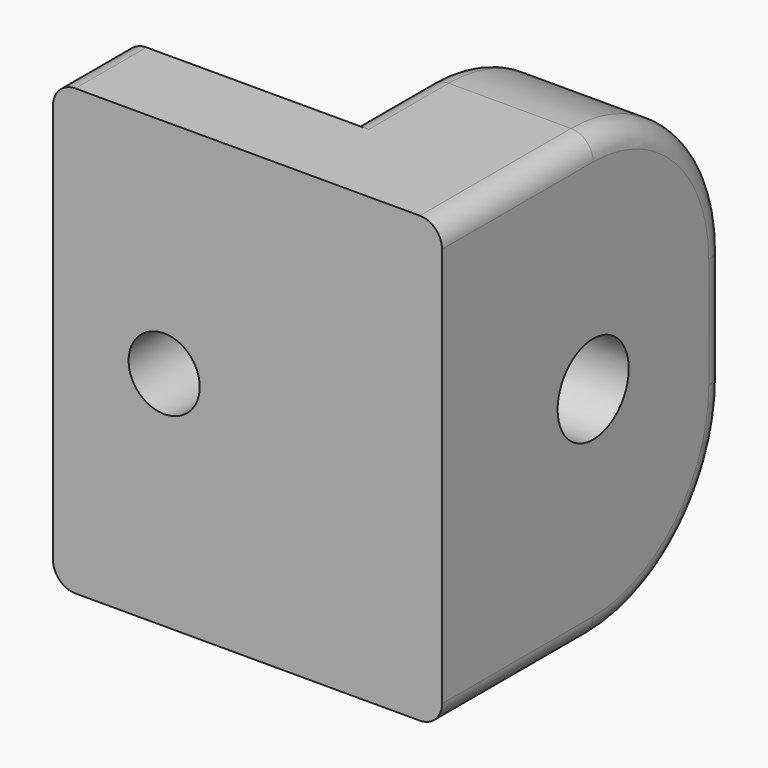
from build123d import *

# Parameters (mm, degrees)
CYLINDER010_R     = 3.2
CYLINDER010_DEPTH = 10
CYLINDER011_R     = 7
CYLINDER011_DEPTH = 1.5
CYLINDER006_R     = 4
CYLINDER006_DEPTH = 81
BOX011_W          = 15
BOX011_H          = 32
BOX011_DEPTH      = 40
FILLET005_R       = 15
FILLET012005_R    = 2
BOX013_W          = 35
BOX013_H          = 8
BOX013_DEPTH      = 40
FILLET012007_R    = 2


with BuildPart() as cylinder010:
    # Cylinder010 → Cylinder010 (new body)
    with BuildSketch(Plane(origin=(-40, -64, 20), x_dir=(1, 0, 0), z_dir=(0, -1, 0))):
        Circle(CYLINDER010_R)
    extrude(amount=CYLINDER010_DEPTH)


with BuildPart() as fusion006:
    # Cylinder011 → Cylinder011 (new body)
    with BuildSketch(Plane(origin=(-40, -66, 20), x_dir=(1, 0, 0), z_dir=(0, -1, 0))):
        Circle(CYLINDER011_R)
    extrude(amount=CYLINDER011_DEPTH)

    # Fusion006: union Cylinder010
    add(cylinder010.part)


with BuildPart() as cylinder006:
    # Cylinder006 → Cylinder006 (new body)
    with BuildSketch(Plane(origin=(43, -57, 20), x_dir=(0, 0, 1), z_dir=(-1, 0, 0))):
        Circle(CYLINDER006_R)
    extrude(amount=CYLINDER006_DEPTH)


with BuildPart() as fillet012005:
    # Box011 → Box011 (new body)
    with BuildSketch(Plane(origin=(-30, -74, 0), x_dir=(1, 0, 0), z_dir=(0, 0, 1))):
        with Locations((7.5, 16)):
            Rectangle(BOX011_W, BOX011_H)
    extrude(amount=BOX011_DEPTH)

    # Fillet005
    fillet005_edges = [fillet012005.edges().sort_by_distance(p)[0] for p in [
        (-22.5, -42, 0),
        (-22.5, -42, 40),
    ]]
    fillet(fillet005_edges, radius=FILLET005_R)

    # Cut014: cut Cylinder006
    add(cylinder006.part, mode=Mode.SUBTRACT)

    # Fillet012005
    fillet012005_edges = [fillet012005.edges().sort_by_distance(p)[0] for p in [
        (-30, -65.5, 40),
        (-30, -46.393398, 35.606602),
        (-30, -42, 20),
        (-30, -65.5, 0),
        (-30, -46.393398, 4.393398),
        (-15, -65.5, 40),
        (-15, -46.393398, 35.606602),
        (-15, -42, 20),
        (-15, -65.5, 0),
        (-15, -46.393398, 4.393398),
    ]]
    fillet(fillet012005_edges, radius=FILLET012005_R)


with BuildPart() as cut019:
    # Box013 → Box013 (new body)
    with BuildSketch(Plane(origin=(-50, -74, 0), x_dir=(1, 0, 0), z_dir=(0, 0, 1))):
        with Locations((17.5, 4)):
            Rectangle(BOX013_W, BOX013_H)
    extrude(amount=BOX013_DEPTH)

    # Fillet012007
    fillet012007_edges = [cut019.edges().sort_by_distance(p)[0] for p in [
        (-50, -70, 40),
        (-50, -70, 0),
        (-15, -70, 40),
        (-15, -70, 0),
    ]]
    fillet(fillet012007_edges, radius=FILLET012007_R)

    # Fusion004: union Fillet012005
    add(fillet012005.part)

    # Cut019: cut Fusion006
    add(fusion006.part, mode=Mode.SUBTRACT)


solid = cut019.part
